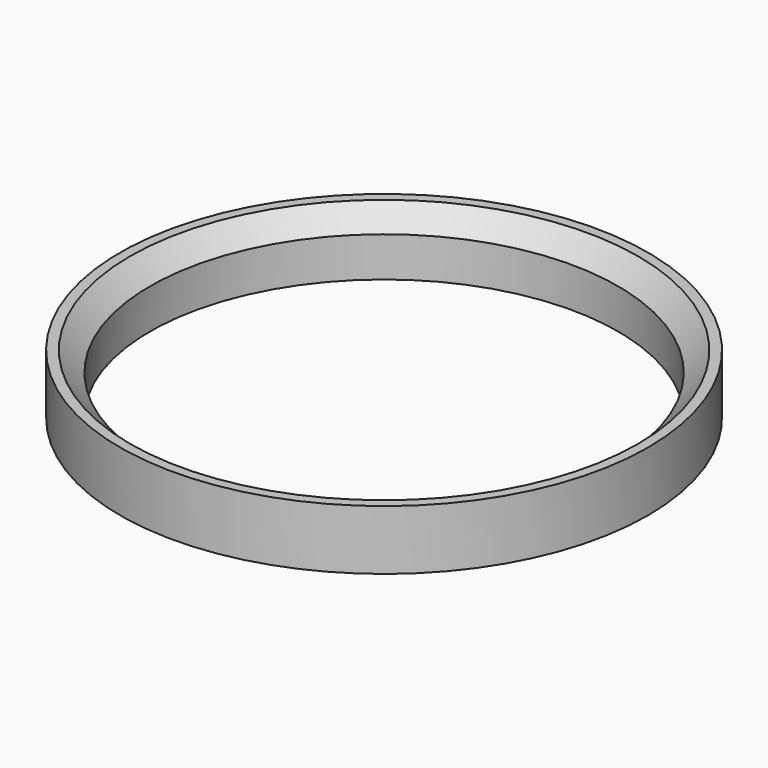
from build123d import *

# Parameters (mm, degrees)
CYLINDER025_R     = 23.5
CYLINDER025_DEPTH = 6
CYLINDER024_R     = 26.5
CYLINDER024_DEPTH = 6
CHAMFER013_SIZE   = 2


with BuildPart() as obj1:
    # Cylinder025 → Cylinder025 (new body)
    with BuildSketch(Plane(origin=(-12.5, 19, -10.6), x_dir=(1, 0, 0), z_dir=(0, 0, 1))):
        Circle(CYLINDER025_R)
    extrude(amount=CYLINDER025_DEPTH)


with BuildPart() as obj2:
    # Cylinder024 → Cylinder024 (new body)
    with BuildSketch(Plane(origin=(-12.5, 19, -10.6), x_dir=(1, 0, 0), z_dir=(0, 0, 1))):
        Circle(CYLINDER024_R)
    extrude(amount=CYLINDER024_DEPTH)

    # Cut012: cut obj1
    add(obj1.part, mode=Mode.SUBTRACT)


with BuildPart() as obj2_1:
    # Cut012 placement: moved
    add(obj2.part.moved(Location((0, 0, 11))))

    # Chamfer013
    chamfer013_edges = [obj2_1.edges().sort_by_distance(p)[0] for p in [
        (-36, 19, 6.4),
    ]]
    chamfer(chamfer013_edges, length=CHAMFER013_SIZE)


solid = obj2_1.part
